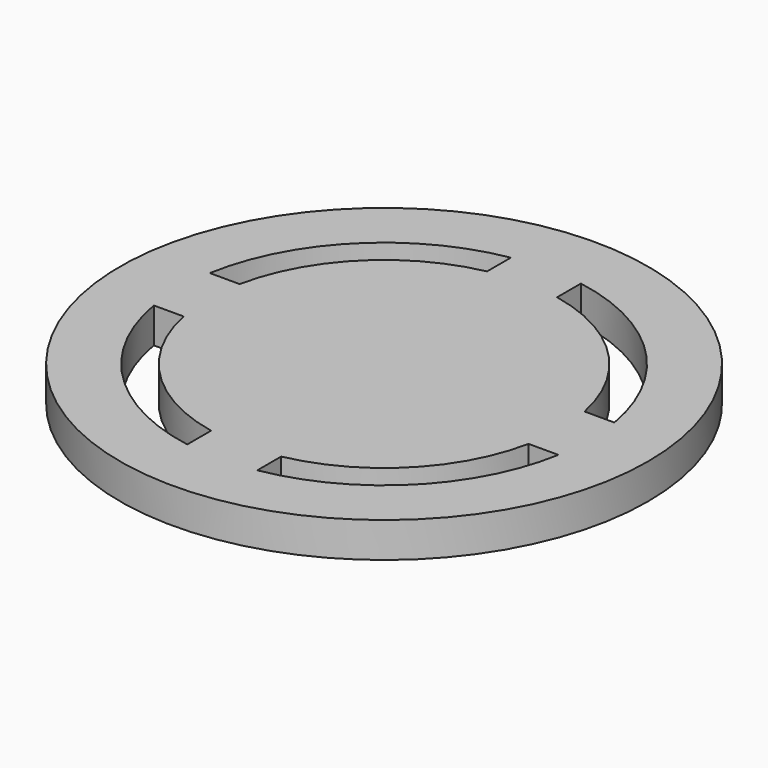
from build123d import *

# Parameters (mm, degrees)
F0_R     = 57.15
F1_DEPTH = 7.62


with BuildPart() as f1:
    # F0 (on Top) → F1 (new body)
    with BuildSketch(Plane.XY):
        Circle(F0_R)
        with BuildLine():
            ThreePointArc((7.581804, 43.798616), (31.430896, 31.430896), (43.798616, 7.581804))
            ThreePointArc((43.798616, 7.581804), (44.286855, 3.804867), (44.45, 0))
            ThreePointArc((44.45, 0), (44.286855, -3.804867), (43.798616, -7.581804))
            ThreePointArc((43.798616, -7.581804), (31.430896, -31.430896), (7.581804, -43.798616))
            ThreePointArc((7.581804, -43.798616), (0, -44.45), (-7.581804, -43.798616))
            ThreePointArc((-7.581804, -43.798616), (-31.430896, -31.430896), (-43.798616, -7.581804))
            ThreePointArc((-43.798616, -7.581804), (-44.45, 0), (-43.798616, 7.581804))
            ThreePointArc((-43.798616, 7.581804), (-31.430896, 31.430896), (-7.581804, 43.798616))
            ThreePointArc((-7.581804, 43.798616), (0, 44.45), (7.581804, 43.798616))
        make_face(mode=Mode.SUBTRACT)
        with BuildLine():
            ThreePointArc((37.338, -7.581804), (37.909021, -3.81), (38.1, 0))
            ThreePointArc((38.1, 0), (37.909021, 3.81), (37.338, 7.581804))
            ThreePointArc((37.338, 7.581804), (26.940768, 26.940768), (7.581804, 37.338))
            ThreePointArc((7.581804, 37.338), (0, 38.1), (-7.581804, 37.338))
            ThreePointArc((-7.581804, 37.338), (-26.940768, 26.940768), (-37.338, 7.581804))
            ThreePointArc((-37.338, 7.581804), (-38.1, 0), (-37.338, -7.581804))
            ThreePointArc((-37.338, -7.581804), (-26.940768, -26.940768), (-7.581804, -37.338))
            ThreePointArc((-7.581804, -37.338), (0, -38.1), (7.581804, -37.338))
            ThreePointArc((7.581804, -37.338), (26.940768, -26.940768), (37.338, -7.581804))
        make_face()
        with BuildLine():
            ThreePointArc((-7.581804, 37.338), (0, 38.1), (7.581804, 37.338))
            Line((7.581804, 37.338), (7.581804, 43.798616))
            ThreePointArc((7.581804, 43.798616), (0, 44.45), (-7.581804, 43.798616))
            Line((-7.581804, 43.798616), (-7.581804, 37.338))
        make_face()
        with BuildLine():
            ThreePointArc((37.338, 7.581804), (37.909021, 3.81), (38.1, 0))
            ThreePointArc((38.1, 0), (37.909021, -3.81), (37.338, -7.581804))
            Line((37.338, -7.581804), (43.798616, -7.581804))
            ThreePointArc((43.798616, -7.581804), (44.286855, -3.804867), (44.45, 0))
            ThreePointArc((44.45, 0), (44.286855, 3.804867), (43.798616, 7.581804))
            Line((43.798616, 7.581804), (37.338, 7.581804))
        make_face()
        with BuildLine():
            Line((7.581804, -43.798616), (7.581804, -37.338))
            ThreePointArc((7.581804, -37.338), (0, -38.1), (-7.581804, -37.338))
            Line((-7.581804, -37.338), (-7.581804, -43.798616))
            ThreePointArc((-7.581804, -43.798616), (0, -44.45), (7.581804, -43.798616))
        make_face()
        with BuildLine():
            ThreePointArc((-37.338, -7.581804), (-38.1, 0), (-37.338, 7.581804))
            Line((-37.338, 7.581804), (-43.798616, 7.581804))
            ThreePointArc((-43.798616, 7.581804), (-44.45, 0), (-43.798616, -7.581804))
            Line((-43.798616, -7.581804), (-37.338, -7.581804))
        make_face()
    extrude(amount=F1_DEPTH)


solid = f1.part
